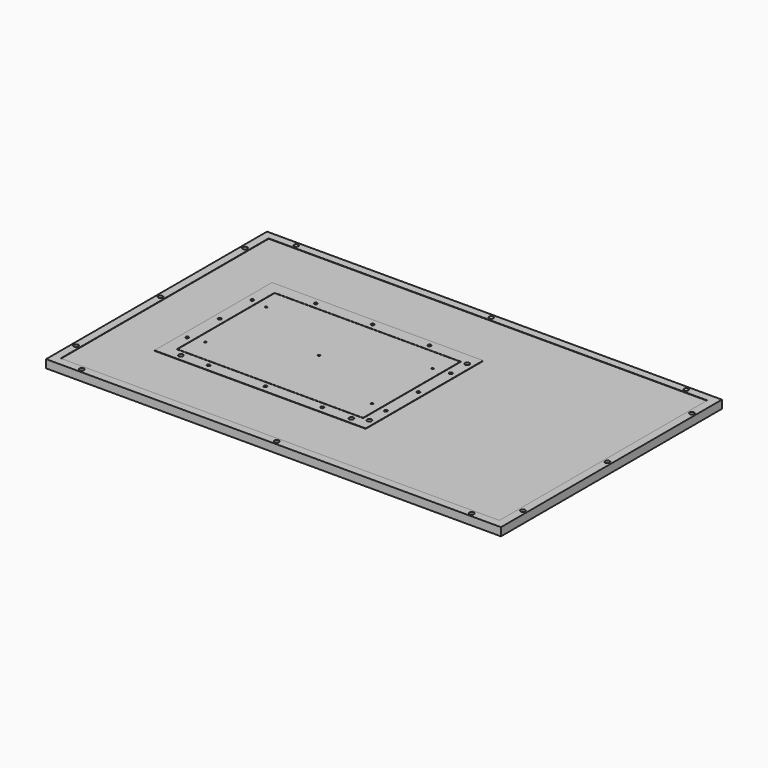
from build123d import *

# Parameters (mm, degrees)
F0_W      = 355.6
F0_H      = 215.9
F1_DEPTH  = 6.35
F2_R      = 1.778
F3_DEPTH  = 6.351
F4_R      = 0.79375
F5_DEPTH  = 6.351
F6_R      = 1.778
F7_DEPTH  = 6.351
F8_R      = 1.2192
F9_DEPTH  = 6.351
F10_W     = 342.9
F10_H     = 203.2
F10_W_2   = 165.1127
F10_H_2   = 114.8461
F10_W_3   = 145.7325
F10_H_3   = 95.5675
F10_W_4   = 145.1737
F10_H_4   = 95.0087
F11_DEPTH = 0.2794


with BuildPart() as f1:
    # F0 (on Top) → F1 (new body)
    with BuildSketch(Plane.XY):
        with Locations((177.8, 107.95)):
            Rectangle(F0_W, F0_H)
    extrude(amount=F1_DEPTH)

    # F2 (on face) → F3 (cut, through all)
    with BuildSketch(Plane.XY.offset(6.35)):
        with Locations((3.175, 107.95)):
            Circle(F2_R)
        with Locations((3.108338, 25.400027)):
            Circle(F2_R)
        with Locations((3.108338, 190.499973)):
            Circle(F2_R)
        with Locations((177.8, 3.175)):
            Circle(F2_R)
        with Locations((330.2, 3.175)):
            Circle(F2_R)
        with Locations((330.2, 212.725)):
            Circle(F2_R)
        with Locations((25.4, 3.175)):
            Circle(F2_R)
        with Locations((177.8, 212.725)):
            Circle(F2_R)
        with Locations((25.4, 212.725)):
            Circle(F2_R)
        with Locations((352.491662, 190.499973)):
            Circle(F2_R)
        with Locations((352.425, 107.95)):
            Circle(F2_R)
        with Locations((352.491662, 25.400027)):
            Circle(F2_R)
    extrude(amount=-F3_DEPTH, mode=Mode.SUBTRACT)

    # F4 (on face) → F5 (cut, through all)
    with BuildSketch(Plane.XY.offset(6.35)):
        with Locations((127, 107.95)):
            Circle(F4_R)
        with Locations((61.9125, 78.35265)):
            Circle(F4_R)
        with Locations((192.0875, 78.35265)):
            Circle(F4_R)
        with Locations((61.9125, 137.54735)):
            Circle(F4_R)
        with Locations((192.0875, 137.54735)):
            Circle(F4_R)
    extrude(amount=-F5_DEPTH, mode=Mode.SUBTRACT)

    # F6 (on face) → F7 (cut, through all)
    with BuildSketch(Plane.XY.offset(6.35)):
        with Locations((204.62875, 155.7274)):
            Circle(F6_R)
        with Locations((204.62875, 60.1726)):
            Circle(F6_R)
        with Locations((194.4878, 55.245)):
            Circle(F6_R)
        with Locations((61.1378, 55.245)):
            Circle(F6_R)
    extrude(amount=-F7_DEPTH, mode=Mode.SUBTRACT)

    # F8 (on face) → F9 (cut, through all)
    with BuildSketch(Plane.XY.offset(6.35)):
        with Locations((82.55, 160.3375)):
            Circle(F8_R)
        with Locations((127, 160.3375)):
            Circle(F8_R)
        with Locations((171.45, 160.3375)):
            Circle(F8_R)
        with Locations((82.55, 55.5625)):
            Circle(F8_R)
        with Locations((127, 55.5625)):
            Circle(F8_R)
        with Locations((171.45, 55.5625)):
            Circle(F8_R)
        with Locations((204.62875, 139.7)):
            Circle(F8_R)
        with Locations((204.62875, 76.2)):
            Circle(F8_R)
        with Locations((204.62875, 107.95)):
            Circle(F8_R)
        with Locations((49.37125, 139.7)):
            Circle(F8_R)
        with Locations((49.37125, 107.95)):
            Circle(F8_R)
        with Locations((49.37125, 76.2)):
            Circle(F8_R)
    extrude(amount=-F9_DEPTH, mode=Mode.SUBTRACT)

    # F10 (on face) → F11 (cut)
    with BuildSketch(Plane.XY.offset(6.35)):
        with Locations((177.8, 107.95)):
            Rectangle(F10_W, F10_H)
        with Locations((127, 107.79125)):
            Rectangle(F10_W_2, F10_H_2, mode=Mode.SUBTRACT)
        with Locations((127, 107.79125)):
            Rectangle(F10_W_3, F10_H_3)
        with Locations((127, 107.79125)):
            Rectangle(F10_W_4, F10_H_4, mode=Mode.SUBTRACT)
    extrude(amount=-F11_DEPTH, mode=Mode.SUBTRACT)


solid = f1.part
